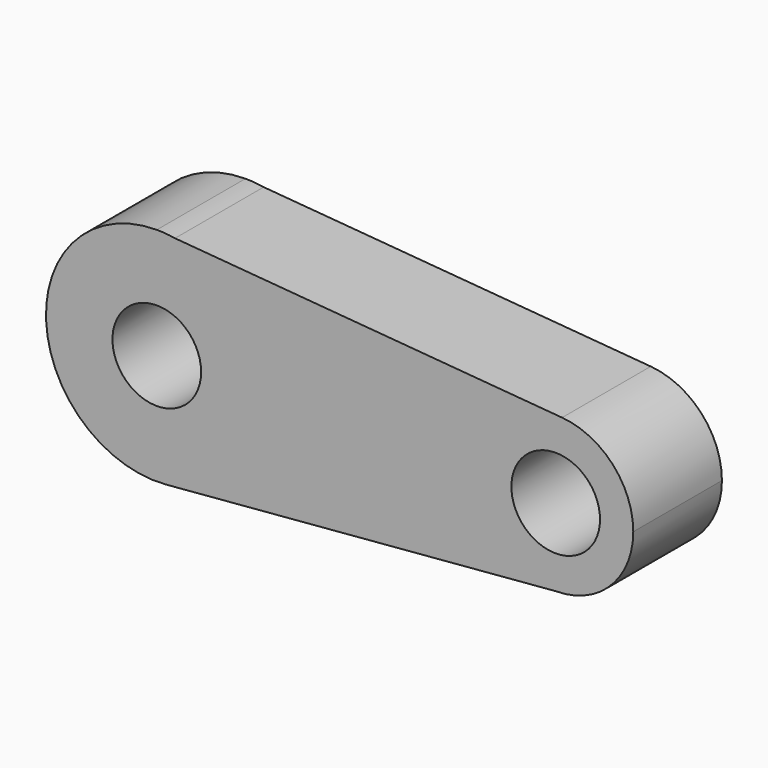
from build123d import *

# Parameters (mm, degrees)
F0_R     = 10
F1_DEPTH = 25


with BuildPart() as f1:
    # F0 (on Front) → F1 (new body)
    with BuildSketch(Plane.XZ):
        with BuildLine():
            ThreePointArc((2.100523, -24.9116), (18.40534, -16.918731), (25, 0))
            ThreePointArc((25, 0), (19.074015, 16.161125), (4.105443, 24.660603))
            Line((4.105443, 24.660603), (0, 25))
            ThreePointArc((0, 25), (-24.97789, -1.051191), (2.100523, -24.9116))
        make_face()
        Circle(F0_R, mode=Mode.SUBTRACT)
        with BuildLine():
            ThreePointArc((4.105443, 24.660603), (19.074015, 16.161125), (25, 0))
            ThreePointArc((25, 0), (18.40534, -16.918731), (2.100523, -24.9116))
            Line((2.100523, -24.9116), (90, -17.5))
            ThreePointArc((90, -17.5), (72.51488, 0.721517), (91.441807, 17.440504))
            Line((91.441807, 17.440504), (4.105443, 24.660603))
        make_face()
        with BuildLine():
            Line((0, 25), (4.105443, 24.660603))
            ThreePointArc((4.105443, 24.660603), (2.059724, 24.915006), (0, 25))
        make_face()
        with BuildLine():
            ThreePointArc((107.5, 0), (102.874036, 11.853657), (91.441807, 17.440504))
            ThreePointArc((91.441807, 17.440504), (72.51488, 0.721517), (90, -17.5))
            ThreePointArc((90, -17.5), (102.374369, -12.374369), (107.5, 0))
        make_face()
        with Locations((90, 0)):
            Circle(F0_R, mode=Mode.SUBTRACT)
        Circle(F0_R)
        with BuildLine():
            ThreePointArc((2.100523, -24.9116), (18.40534, -16.918731), (25, 0))
            ThreePointArc((25, 0), (19.074015, 16.161125), (4.105443, 24.660603))
            Line((4.105443, 24.660603), (0, 25))
            ThreePointArc((0, 25), (-24.97789, -1.051191), (2.100523, -24.9116))
        make_face()
        Circle(F0_R, mode=Mode.SUBTRACT)
    extrude(amount=F1_DEPTH)


solid = f1.part
